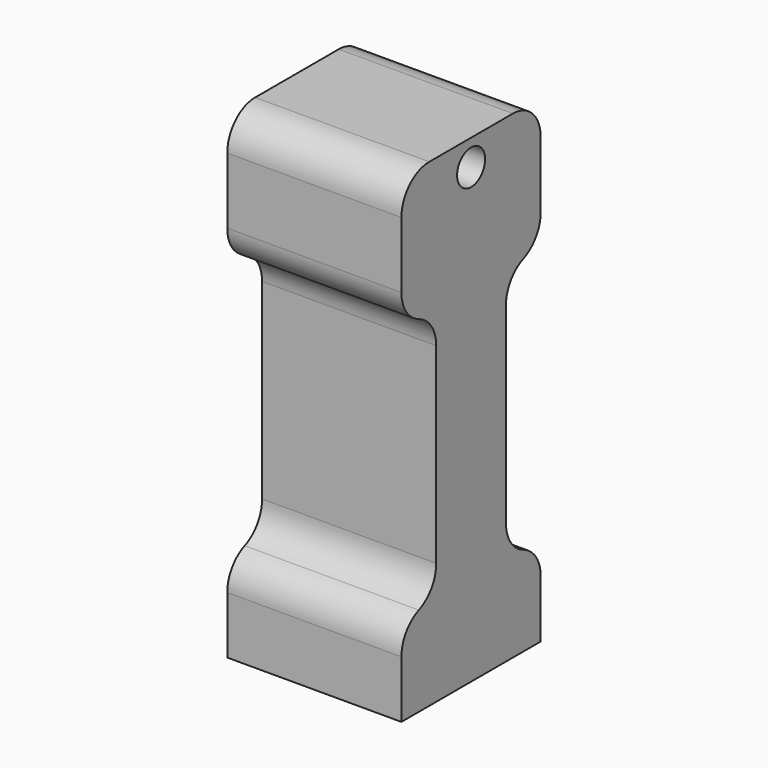
from build123d import *

# Parameters (mm, degrees)
F0_W     = 25.4
F0_H     = 25.4
F1_DEPTH = 69.85
F2_R     = 2.5527
F3_DEPTH = 25.4
F4_R     = 5.08
F5_W     = 6.35
F5_H     = 38.1
F6_DEPTH = 25.4
F7_R     = 5.08
F8_R     = 5.08


with BuildPart() as f1:
    # F0 (on Top) → F1 (new body)
    with BuildSketch(Plane.XY):
        Rectangle(F0_W, F0_H)
    extrude(amount=F1_DEPTH)

    # F2 (on face) → F3 (cut)
    with BuildSketch(Plane.YZ.offset(12.7)):
        with Locations((0, 66.0527)):
            Circle(F2_R)
    extrude(amount=-F3_DEPTH, mode=Mode.SUBTRACT)

    # F4
    f4_edges = [f1.edges().sort_by_distance(p)[0] for p in [
        (0, -12.7, 69.85),
        (0, 12.7, 69.85),
    ]]
    fillet(f4_edges, radius=F4_R)

    # F5 (on face) → F6 (cut)
    with BuildSketch(Plane.YZ.offset(12.7)):
        with Locations((-9.525, 31.75)):
            Rectangle(F5_W, F5_H)
        with Locations((9.525, 31.75)):
            Rectangle(F5_W, F5_H)
    extrude(amount=-F6_DEPTH, mode=Mode.SUBTRACT)

    # F7
    f7_edges = [f1.edges().sort_by_distance(p)[0] for p in [
        (0, 6.35, 50.8),
        (0, 6.35, 12.7),
        (0, -6.35, 50.8),
        (0, -6.35, 12.7),
    ]]
    fillet(f7_edges, radius=F7_R)

    # F8
    f8_edges = [f1.edges().sort_by_distance(p)[0] for p in [
        (0, -12.7, 12.7),
        (0, -12.7, 50.8),
        (0, 12.7, 12.7),
        (0, 12.7, 50.8),
    ]]
    fillet(f8_edges, radius=F8_R)


solid = f1.part
